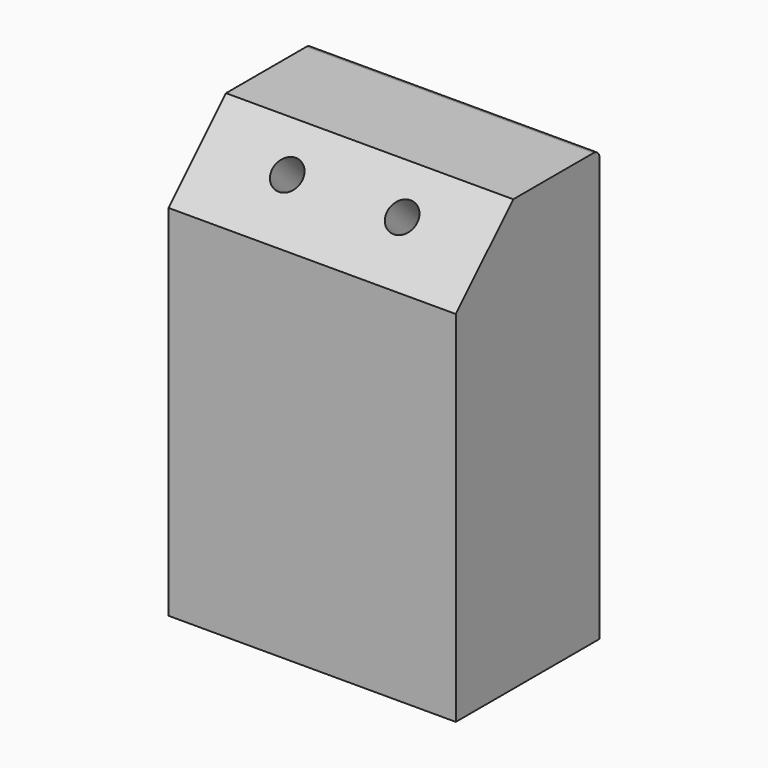
from build123d import *

# Parameters (mm, degrees)
F0_W     = 40
F0_H     = 60
F1_DEPTH = 25
F2_SIZE  = 10
F4_D     = 4.2
F5_R     = 1


with BuildPart() as f1:
    # F0 (on Front) → F1 (new body)
    with BuildSketch(Plane.XZ):
        with Locations((-20, 30)):
            Rectangle(F0_W, F0_H)
    extrude(amount=F1_DEPTH)

    # F2
    f2_edges = [f1.edges().sort_by_distance(p)[0] for p in [
        (-20, -25, 60),
    ]]
    chamfer(f2_edges, length=F2_SIZE)

    # F4 (through all)
    with Locations(Plane(origin=(0, -37.5, 37.5), x_dir=(1, 0, 0), z_dir=(0, -0.7071067812, 0.7071067812))):
        with Locations((-12, 25.6776695297), (-28, 25.6776695297)):
            Hole(F4_D / 2)

    # F5
    f5_edges = [f1.edges().sort_by_distance(p)[0] for p in [
        (-20, 0, 60),
    ]]
    fillet(f5_edges, radius=F5_R)


solid = f1.part
